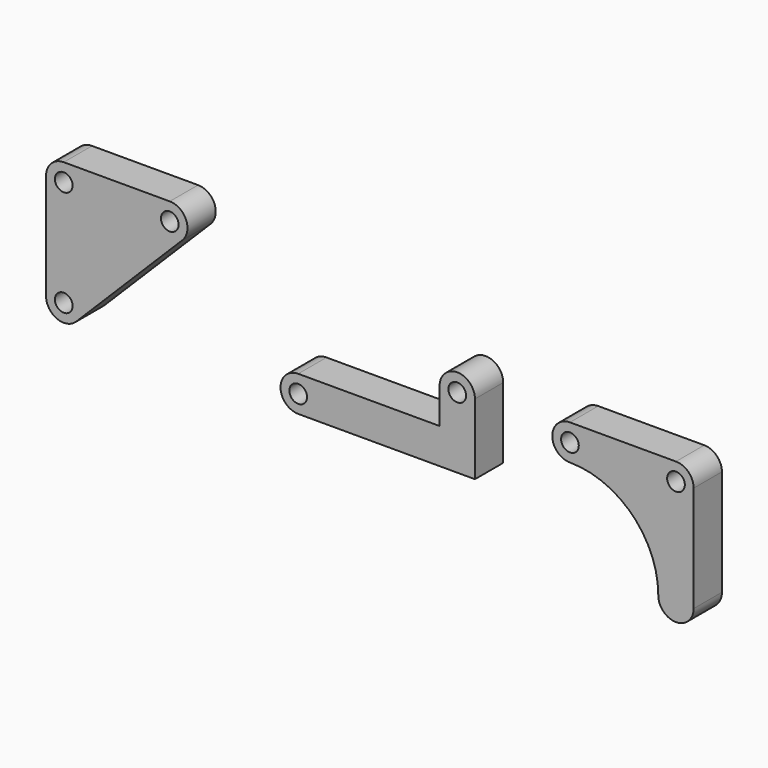
from build123d import *

# Parameters (mm, degrees)
F0_R     = 2.5
F1_DEPTH = 5
F2_R     = 2.5
F3_DEPTH = 5
F4_R     = 2.5
F5_DEPTH = 5


with BuildPart() as f1:
    # F0 (on Front) → F1 (new body, symmetric)
    with BuildSketch(Plane.XZ):
        with BuildLine():
            Line((-50, 0), (0, 0))
            Line((0, 0), (0, 20))
            ThreePointArc((0, 20), (-5, 25), (-10, 20))
            Line((-10, 20), (-10, 10))
            Line((-10, 10), (-50, 10))
            ThreePointArc((-50, 10), (-55, 5), (-50, 0))
        make_face()
        with Locations((-50, 5)):
            Circle(F0_R, mode=Mode.SUBTRACT)
        with Locations((-5, 20)):
            Circle(F0_R, mode=Mode.SUBTRACT)
    extrude(amount=F1_DEPTH, both=True)


with BuildPart() as f3:
    # F2 (on Front) → F3 (new body, symmetric)
    with BuildSketch(Plane.XZ):
        with BuildLine():
            Line((-121.3395705819, 36.1255854368), (-121.3395705819, 6.1255854368))
            ThreePointArc((-121.3395705819, 6.1255854368), (-118.2529877437, 1.5061877743), (-112.804036676, 2.5900515309))
            Line((-112.804036676, 2.5900515309), (-82.804036676, 32.5900515309))
            ThreePointArc((-82.804036676, 32.5900515309), (-81.7201729194, 38.0390025986), (-86.3395705819, 41.1255854368))
            Line((-86.3395705819, 41.1255854368), (-116.3395705819, 41.1255854368))
            ThreePointArc((-116.3395705819, 41.1255854368), (-119.8751044878, 39.6611193428), (-121.3395705819, 36.1255854368))
        make_face()
        with Locations((-116.3395705819, 6.1255854368)):
            Circle(F2_R, mode=Mode.SUBTRACT)
        with Locations((-116.3395705819, 36.1255854368)):
            Circle(F2_R, mode=Mode.SUBTRACT)
        with Locations((-86.3395705819, 36.1255854368)):
            Circle(F2_R, mode=Mode.SUBTRACT)
    extrude(amount=F3_DEPTH, both=True)


with BuildPart() as f5:
    # F4 (on Front) → F5 (new body, symmetric)
    with BuildSketch(Plane.XZ):
        with BuildLine():
            Line((56.8809987468, 22.9026412712), (26.8809987468, 22.9026412712))
            ThreePointArc((26.8809987468, 22.9026412712), (21.8809987468, 17.9026412712), (26.8809987468, 12.9026412712))
            ThreePointArc((26.8809987468, 12.9026412712), (44.5586682765, 5.5803108008), (51.8809987468, -12.0973587288))
            ThreePointArc((51.8809987468, -12.0973587288), (56.8809987468, -17.0973587288), (61.8809987468, -12.0973587288))
            Line((61.8809987468, -12.0973587288), (61.8809987468, 17.9026412712))
            ThreePointArc((61.8809987468, 17.9026412712), (60.4165326527, 21.4381751771), (56.8809987468, 22.9026412712))
        make_face()
        with Locations((26.8809987468, 17.9026412712)):
            Circle(F4_R, mode=Mode.SUBTRACT)
        with Locations((56.8809987468, 17.9026412712)):
            Circle(F4_R, mode=Mode.SUBTRACT)
    extrude(amount=F5_DEPTH, both=True)


solid = Compound([f1.part, f3.part, f5.part])
